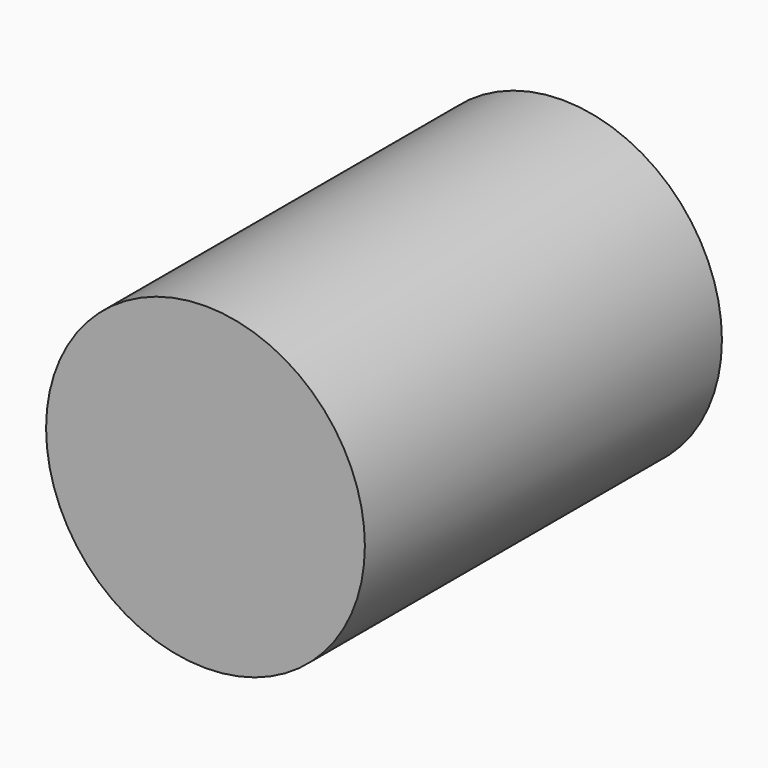
from build123d import *

# Parameters (mm, degrees)
F0_R     = 50
F1_DEPTH = 140
F2_R     = 30
F3_DEPTH = 40
F4_R     = 10
F5_DEPTH = 120


with BuildPart() as f1:
    # F0 (on Front) → F1 (new body)
    with BuildSketch(Plane.XZ):
        Circle(F0_R)
    extrude(amount=F1_DEPTH)

    # F2 (on Front) → F3 (cut)
    with BuildSketch(Plane.XZ):
        Circle(F2_R)
    extrude(amount=F3_DEPTH, mode=Mode.SUBTRACT)

    # F4 (on Front) → F5 (cut)
    with BuildSketch(Plane.XZ):
        Circle(F4_R)
    extrude(amount=F5_DEPTH, mode=Mode.SUBTRACT)


solid = f1.part
